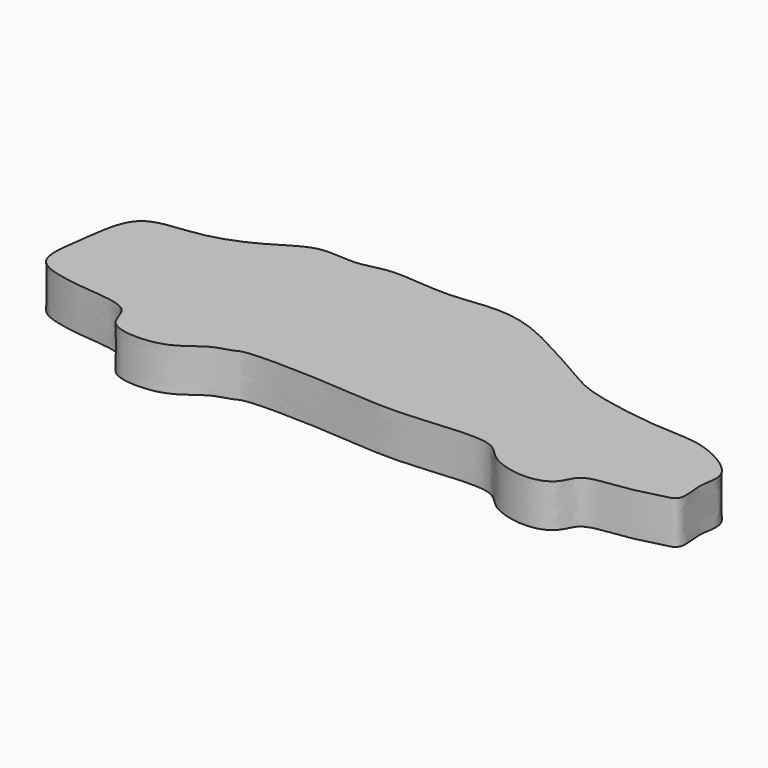
from build123d import *

# Parameters (mm, degrees)
F1_DEPTH = 5


with BuildPart() as f1:
    # F0 (on Top) → F1 (new body)
    with BuildSketch(Plane.XY):
        with BuildLine():
            add(Edge.make_bspline(
                [(-20.2223081142, 9.9646151066), (-19.1386618581, 9.5968150279), (-18.2654642244, 7.8295739731), (-13.4032888047, 6.5584008241), (-10.3448376757, 7.9002096196), (-9.9073848923, 10.56815609), (-5.0126249028, 10.7834870558), (-1.88601058, 11.7234711469), (0.6012464093, 12.1659222816), (-0.3881925765, 15.5899210993), (1.028158618, 18.9280831351), (-4.9216202642, 22.3517220825), (-9.6063354119, 21.9793497026), (-19.2700910968, 23.5241751884), (-22.2501054212, 25.3614911926), (-27.3108481415, 28.1997472068), (-32.180489874, 30.736813801), (-36.6354646812, 31.2922270568), (-41.0901115539, 30.4611310862), (-45.5684078369, 30.8897308223), (-48.9603890702, 31.0932758178), (-52.0533122883, 29.9246071271), (-56.4251342051, 30.9053986143), (-60.4664855372, 27.8668512774), (-66.4387541105, 25.3227261406), (-73.4562424497, 25.6330822768), (-74.1408122408, 18.6017341381), (-75.244404603, 12.6692960335), (-71.2236925723, 11.374033551), (-67.752651187, 10.904786269), (-62.0362590981, 10.5695437238), (-62.3461729919, 6.2762039126), (-55.0683306066, 6.1446866054), (-52.4624834498, 9.1934321052), (-49.8144335014, 9.6808865508), (-48.9723419422, 10.5142182575), (-38.2007218536, 10.2876158461), (-30.6117451442, 9.2568568071), (-22.1810857683, 10.6294432931), (-20.2223081142, 9.9646151066)],
                knots=[0, 0, 0, 0, 0.0219013862, 0.049471469, 0.0715412483, 0.0901395119, 0.116999478, 0.1412821056, 0.1586143446, 0.1805157329, 0.2031353838, 0.2332871287, 0.2627611958, 0.301807132, 0.3263186179, 0.3565885762, 0.386849304, 0.4134956588, 0.4406667981, 0.4677996119, 0.4911154224, 0.5139313204, 0.5398453865, 0.5678909888, 0.6009497585, 0.6318365929, 0.6635587158, 0.6934817045, 0.7164941394, 0.7419247373, 0.7700511403, 0.791780152, 0.8227877497, 0.8487603737, 0.8681070437, 0.8812298186, 0.9212160974, 0.9604114852, 1, 1, 1, 1], degree=3))
        make_face()
    extrude(amount=F1_DEPTH)


solid = f1.part
